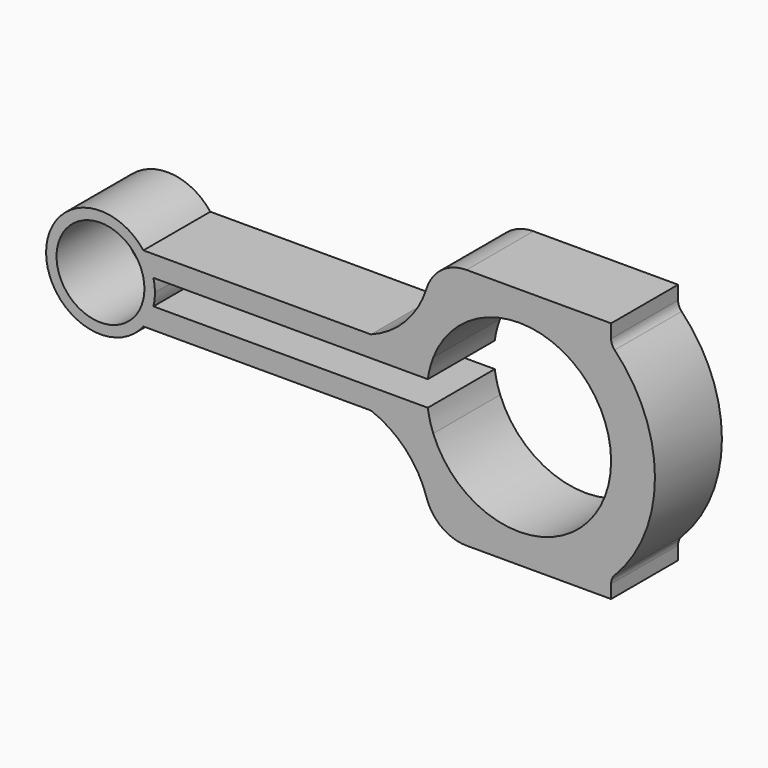
from build123d import *

# Parameters (mm, degrees)
F0_R     = 10.5
F1_DEPTH = 10


with BuildPart() as f1:
    # F0 (on Front) → F1 (new body, symmetric)
    with BuildSketch(Plane.XZ):
        with BuildLine():
            ThreePointArc((12.649111, -3), (12.91198, -1.510225), (13, 0))
            ThreePointArc((13, 0), (12.91198, 1.510225), (12.649111, 3))
            ThreePointArc((12.649111, 3), (11.717824, 5.629617), (10.246951, 8))
            ThreePointArc((10.246951, 8), (-13, 0), (10.246951, -8))
            ThreePointArc((10.246951, -8), (11.717824, -5.629617), (12.649111, -3))
        make_face()
        Circle(F0_R, mode=Mode.SUBTRACT)
        with BuildLine():
            ThreePointArc((10.246951, 8), (11.717824, 5.629617), (12.649111, 3))
            Line((12.649111, 3), (78.205505, 3))
            ThreePointArc((78.205505, 3), (78.70852, 5.538311), (79.506098, 8))
            Line((79.506098, 8), (64.602166, 8))
            Line((64.602166, 8), (10.246951, 8))
        make_face()
        with BuildLine():
            Line((78.205505, -3), (12.649111, -3))
            ThreePointArc((12.649111, -3), (11.717824, -5.629617), (10.246951, -8))
            Line((10.246951, -8), (64.602166, -8))
            Line((64.602166, -8), (79.506098, -8))
            ThreePointArc((79.506098, -8), (78.70852, -5.538311), (78.205505, -3))
        make_face()
        with BuildLine():
            ThreePointArc((77.919916, 22.006825), (72.881564, 13.462612), (64.602166, 8))
            Line((64.602166, 8), (79.506098, 8))
            ThreePointArc((79.506098, 8), (104.070268, 21.620197), (122, 0))
            ThreePointArc((122, 0), (104.070268, -21.620197), (79.506098, -8))
            Line((79.506098, -8), (64.602166, -8))
            ThreePointArc((64.602166, -8), (72.881564, -13.462612), (77.919916, -22.006825))
            ThreePointArc((77.919916, -22.006825), (81.543964, -27.064374), (87.457159, -29))
            Line((87.457159, -29), (122, -29))
            Line((122, -29), (122, -25.805801))
            ThreePointArc((122, -25.805801), (122.220854, -24.676046), (122.850897, -23.712632))
            ThreePointArc((122.850897, -23.712632), (132.479081, -0.027734), (122.850897, 23.657163))
            ThreePointArc((122.850897, 23.657163), (122.220854, 24.620578), (122, 25.750333))
            Line((122, 25.750333), (122, 29))
            Line((122, 29), (87.457159, 29))
            ThreePointArc((87.457159, 29), (81.543964, 27.064374), (77.919916, 22.006825))
        make_face()
    extrude(amount=F1_DEPTH, both=True)


solid = f1.part
